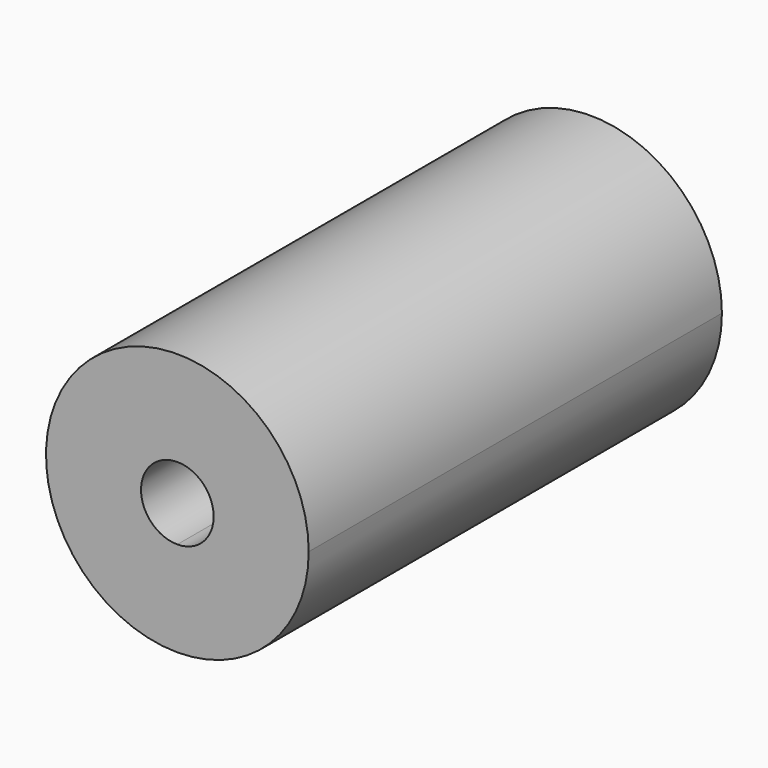
from build123d import *

# Parameters (mm, degrees)
F1_DEPTH = 25.4


with BuildPart() as f1:
    # F0 (on Front) → F1 (new body)
    with BuildSketch(Plane.XZ):
        with BuildLine():
            ThreePointArc((6.459538, 0), (-4.567583, 4.567583), (0, -6.459538))
            ThreePointArc((0, -6.459538), (4.567583, -4.567583), (6.459538, 0))
        make_face()
        with BuildLine():
            ThreePointArc((0, -1.785938), (-1.262849, 1.262849), (1.785938, 0))
            ThreePointArc((1.785938, 0), (1.262849, -1.262849), (0, -1.785938))
        make_face(mode=Mode.SUBTRACT)
    extrude(amount=F1_DEPTH)


solid = f1.part
